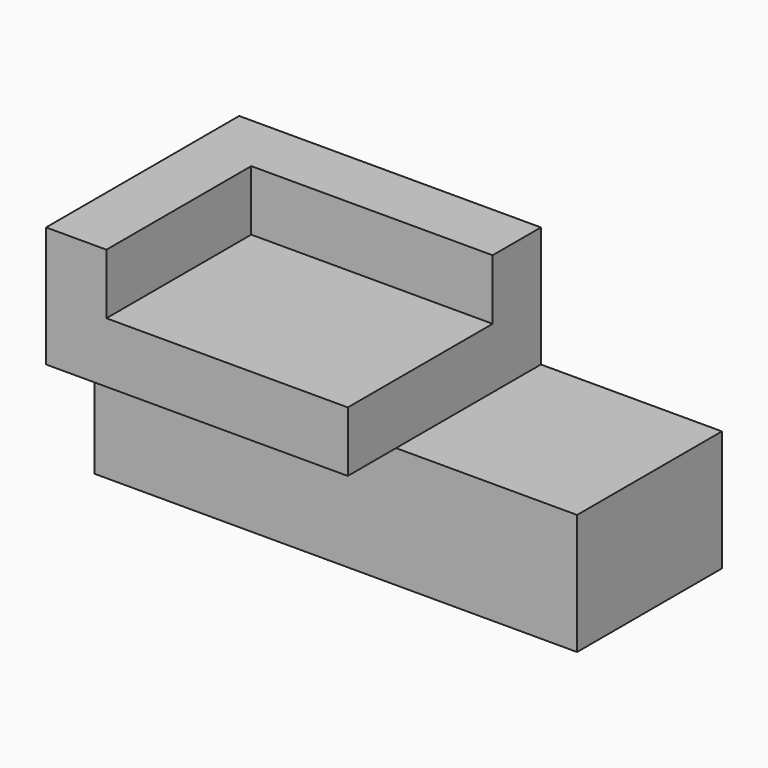
from build123d import *

# Parameters (mm, degrees)
F0_W     = 203.2
F0_H     = 76.2
F1_DEPTH = 50.8
F2_W     = 127
F2_H     = 76.2
F2_H_2   = 25.4
F3_DEPTH = 50.8
F4_W     = 101.6
F4_H     = 76.2
F5_DEPTH = 25.4
F6_ANGLE = 90


with BuildPart() as f1:
    # F0 (on Front) → F1 (new body)
    with BuildSketch(Plane.XZ):
        with Locations((-101.6, 38.1)):
            Rectangle(F0_W, F0_H)
    extrude(amount=F1_DEPTH)

    # F2 (on face) → F3 (join)
    with BuildSketch(Plane.XZ.offset(50.8)):
        with Locations((-139.7, 38.1)):
            Rectangle(F2_W, F2_H)
        with Locations((-139.7, -12.7)):
            Rectangle(F2_W, F2_H_2)
    extrude(amount=F3_DEPTH)

    # F4 (on face) → F5 (cut)
    with BuildSketch(Plane.XZ.offset(101.6)):
        with Locations((-127, 12.7)):
            Rectangle(F4_W, F4_H)
    extrude(amount=-F5_DEPTH, mode=Mode.SUBTRACT)


with BuildPart() as f1_1:
    # F6: moved
    add(f1.part.rotate(Axis((-101.6, 0, 0), (-1, 0, 0)), F6_ANGLE))


solid = f1_1.part
